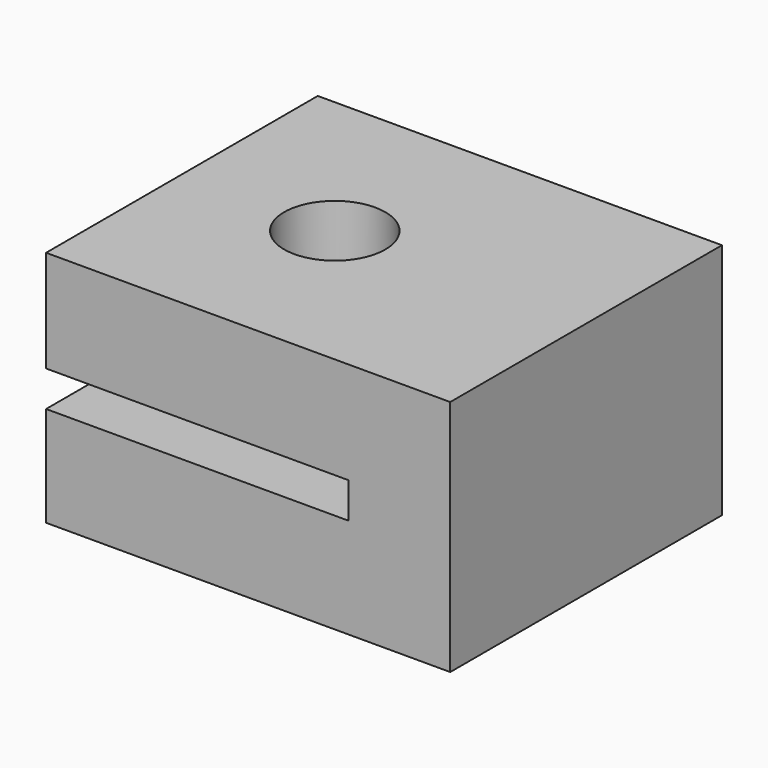
from build123d import *

# Parameters (mm, degrees)
SKETCH004_W     = 11.9
SKETCH004_H     = 10
PAD002_DEPTH    = 7
SKETCH005_R     = 1.49
POCKET002_DEPTH = 7.001
SKETCH006_W     = 8.9
SKETCH006_H     = 1.05
POCKET003_DEPTH = 10.001


with BuildPart() as part:
    # Sketch004 → Pad002 (new body)
    with BuildSketch(Plane.XY):
        with Locations((-1.274876, -8.312189)):
            Rectangle(SKETCH004_W, SKETCH004_H)
    extrude(amount=PAD002_DEPTH)

    # Sketch005 → Pocket002 (cut, through all)
    with BuildSketch(Plane.XY.offset(7)):
        with Locations((-2.724876, -8.312189)):
            Circle(SKETCH005_R)
    extrude(amount=-POCKET002_DEPTH, mode=Mode.SUBTRACT)

    # Sketch006 → Pocket003 (cut, through all)
    with BuildSketch(Plane.XZ.offset(13.312189)):
        with Locations((-2.774876, 3.475)):
            Rectangle(SKETCH006_W, SKETCH006_H)
    extrude(amount=-POCKET003_DEPTH, mode=Mode.SUBTRACT)


solid = part.part
